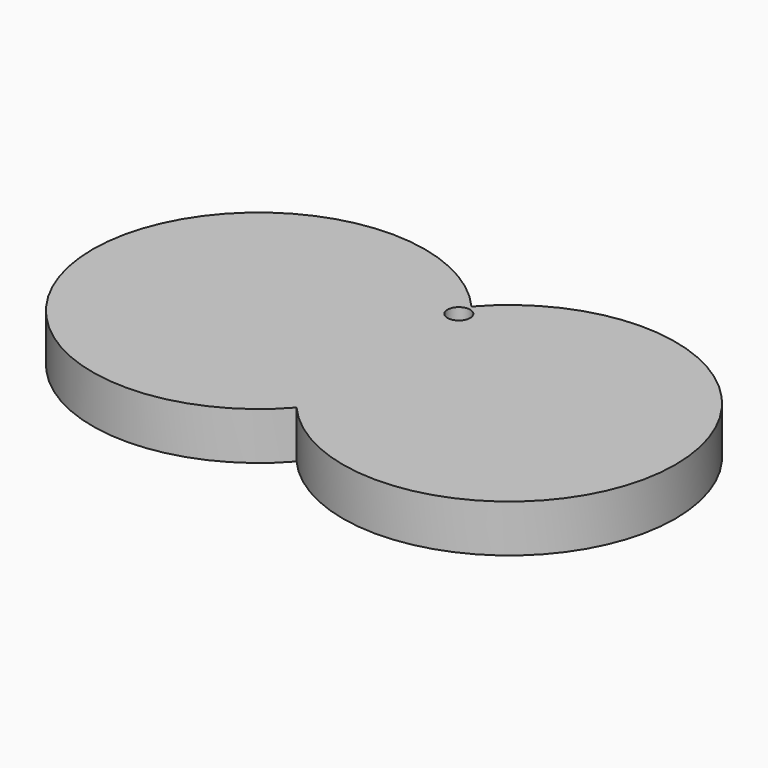
from build123d import *

# Parameters (mm, degrees)
F0_R     = 1.515616
F1_DEPTH = 6.35


with BuildPart() as f1:
    # F0 (on Top) → F1 (new body)
    with BuildSketch(Plane.XY):
        with BuildLine():
            ThreePointArc((-25.854853, 62.726852), (-64.81821, 48.105702), (-25.854853, 33.484552))
            ThreePointArc((-25.854853, 33.484552), (13.108504, 48.105702), (-25.854853, 62.726852))
        make_face()
        with BuildLine():
            ThreePointArc((-25.854853, 44.393772), (-59.73821, 48.105702), (-25.854853, 51.817632))
            ThreePointArc((-25.854853, 51.817632), (8.028504, 48.105702), (-25.854853, 44.393772))
        make_face(mode=Mode.SUBTRACT)
        with Locations((-25.854853, 60.611729)):
            Circle(F0_R, mode=Mode.SUBTRACT)
        with BuildLine():
            ThreePointArc((-25.854853, 44.393772), (8.028504, 48.105702), (-25.854853, 51.817632))
            ThreePointArc((-25.854853, 51.817632), (-59.73821, 48.105702), (-25.854853, 44.393772))
        make_face()
    extrude(amount=F1_DEPTH)


solid = f1.part
